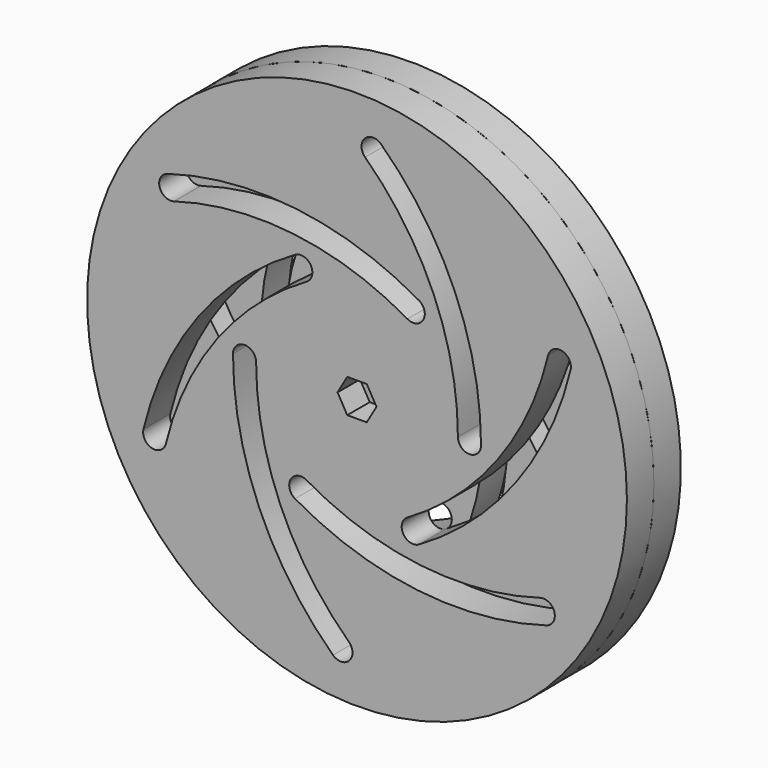
from build123d import *

# Parameters (mm, degrees)
F0_R     = 76.2
F0_R_2   = 9.8425
F0_R_3   = 9.525
F1_DEPTH = 9.525
F0_R_4   = 2.5146
F2_DEPTH = 1.5875
F3_DEPTH = 4.7625
F4_DEPTH = 9.525
F5_ANGLE = 180


with BuildPart() as f1:
    # F0 (on Front) → F1 (new body)
    with BuildSketch(Plane.XZ):
        Circle(F0_R)
        with BuildLine():
            ThreePointArc((-2.2891337662, -60.9701208178), (-2.1680320479, -65.5843835751), (-6.7822948052, -65.7054852935))
            ThreePointArc((-6.7822948052, -65.7054852935), (-27.6572431778, -35.756937542), (-35.0139, 0))
            ThreePointArc((-35.0139, 0), (-31.75, 3.2639), (-28.4861, 0))
            ThreePointArc((-28.4861, 0), (-21.6596340929, -33.1799512974), (-2.2891337662, -60.9701208178))
        make_face(mode=Mode.SUBTRACT)
        with BuildLine():
            ThreePointArc((-53.9462403831, -28.5026124147), (-57.8817582915, -30.9146209579), (-60.2937668348, -26.9791030495))
            ThreePointArc((-60.2937668348, -26.9791030495), (-44.7950378618, 6.0734064196), (-17.50695, 30.3229268856))
            ThreePointArc((-17.50695, 30.3229268856), (-13.0483796846, 29.1282565702), (-14.24305, 24.6696862547))
            ThreePointArc((-14.24305, 24.6696862547), (-39.5644977663, 2.1678177124), (-53.9462403831, -28.5026124147))
        make_face(mode=Mode.SUBTRACT)
        with BuildLine():
            ThreePointArc((51.6571066169, -32.4675084031), (55.7137262437, -34.6697626172), (53.5114720296, -38.726382244))
            ThreePointArc((53.5114720296, -38.726382244), (17.137794684, -41.8303439616), (-17.50695, -30.3229268856))
            ThreePointArc((-17.50695, -30.3229268856), (-18.7016203154, -25.8643565702), (-14.24305, -24.6696862547))
            ThreePointArc((-14.24305, -24.6696862547), (17.9048636734, -35.3477690098), (51.6571066169, -32.4675084031))
        make_face(mode=Mode.SUBTRACT)
        with BuildLine():
            ThreePointArc((-51.6571066169, 32.4675084031), (-55.7137262437, 34.6697626172), (-53.5114720296, 38.726382244))
            ThreePointArc((-53.5114720296, 38.726382244), (-17.137794684, 41.8303439616), (17.50695, 30.3229268856))
            ThreePointArc((17.50695, 30.3229268856), (18.7016203154, 25.8643565702), (14.24305, 24.6696862547))
            ThreePointArc((14.24305, 24.6696862547), (-17.9048636734, 35.3477690098), (-51.6571066169, 32.4675084031))
        make_face(mode=Mode.SUBTRACT)
        Circle(F0_R_2, mode=Mode.SUBTRACT)
        with BuildLine():
            ThreePointArc((14.24305, -24.6696862547), (39.5644977663, -2.1678177124), (53.9462403831, 28.5026124147))
            ThreePointArc((53.9462403831, 28.5026124147), (57.8817582915, 30.9146209579), (60.2937668348, 26.9791030495))
            ThreePointArc((60.2937668348, 26.9791030495), (44.7950378618, -6.0734064196), (17.50695, -30.3229268856))
            ThreePointArc((17.50695, -30.3229268856), (13.0483796846, -29.1282565702), (14.24305, -24.6696862547))
        make_face(mode=Mode.SUBTRACT)
        with BuildLine():
            ThreePointArc((2.2891337662, 60.9701208178), (2.1680320479, 65.5843835751), (6.7822948052, 65.7054852935))
            ThreePointArc((6.7822948052, 65.7054852935), (27.6572431778, 35.756937542), (35.0139, 0))
            ThreePointArc((35.0139, 0), (31.75, -3.2639), (28.4861, 0))
            ThreePointArc((28.4861, 0), (21.6596340929, 33.1799512974), (2.2891337662, 60.9701208178))
        make_face(mode=Mode.SUBTRACT)
        Circle(F0_R_2)
        Circle(F0_R_3, mode=Mode.SUBTRACT)
        Circle(F0_R_3)
        Polygon((-2.749630657, 4.7625), (2.749630657, 4.7625), (5.499261314, 0), (2.749630657, -4.7625), (-2.749630657, -4.7625), (-5.499261314, 0), align=None, mode=Mode.SUBTRACT)
    extrude(amount=F1_DEPTH)

    # F0 (on Front) → F2 (join)
    with BuildSketch(Plane.XZ):
        Polygon((5.499261314, 0), (2.749630657, 4.7625), (-2.749630657, 4.7625), (-5.499261314, 0), (-2.749630657, -4.7625), (2.749630657, -4.7625), align=None)
        Circle(F0_R_4, mode=Mode.SUBTRACT)
    extrude(amount=F2_DEPTH)

    # F0 (on Front) → F3 (join)
    with BuildSketch(Plane.XZ):
        Circle(F0_R_3)
        Polygon((-2.749630657, 4.7625), (2.749630657, 4.7625), (5.499261314, 0), (2.749630657, -4.7625), (-2.749630657, -4.7625), (-5.499261314, 0), align=None, mode=Mode.SUBTRACT)
        Polygon((5.499261314, 0), (2.749630657, 4.7625), (-2.749630657, 4.7625), (-5.499261314, 0), (-2.749630657, -4.7625), (2.749630657, -4.7625), align=None)
        Circle(F0_R_4, mode=Mode.SUBTRACT)
    extrude(amount=-F3_DEPTH)


with BuildPart() as f4:
    # F0 (on Front) → F4 (new body, through all)
    with BuildSketch(Plane.XZ):
        Circle(F0_R)
        with BuildLine():
            ThreePointArc((-2.2891337662, -60.9701208178), (-2.1680320479, -65.5843835751), (-6.7822948052, -65.7054852935))
            ThreePointArc((-6.7822948052, -65.7054852935), (-27.6572431778, -35.756937542), (-35.0139, 0))
            ThreePointArc((-35.0139, 0), (-31.75, 3.2639), (-28.4861, 0))
            ThreePointArc((-28.4861, 0), (-21.6596340929, -33.1799512974), (-2.2891337662, -60.9701208178))
        make_face(mode=Mode.SUBTRACT)
        with BuildLine():
            ThreePointArc((-53.9462403831, -28.5026124147), (-57.8817582915, -30.9146209579), (-60.2937668348, -26.9791030495))
            ThreePointArc((-60.2937668348, -26.9791030495), (-44.7950378618, 6.0734064196), (-17.50695, 30.3229268856))
            ThreePointArc((-17.50695, 30.3229268856), (-13.0483796846, 29.1282565702), (-14.24305, 24.6696862547))
            ThreePointArc((-14.24305, 24.6696862547), (-39.5644977663, 2.1678177124), (-53.9462403831, -28.5026124147))
        make_face(mode=Mode.SUBTRACT)
        with BuildLine():
            ThreePointArc((51.6571066169, -32.4675084031), (55.7137262437, -34.6697626172), (53.5114720296, -38.726382244))
            ThreePointArc((53.5114720296, -38.726382244), (17.137794684, -41.8303439616), (-17.50695, -30.3229268856))
            ThreePointArc((-17.50695, -30.3229268856), (-18.7016203154, -25.8643565702), (-14.24305, -24.6696862547))
            ThreePointArc((-14.24305, -24.6696862547), (17.9048636734, -35.3477690098), (51.6571066169, -32.4675084031))
        make_face(mode=Mode.SUBTRACT)
        with BuildLine():
            ThreePointArc((-51.6571066169, 32.4675084031), (-55.7137262437, 34.6697626172), (-53.5114720296, 38.726382244))
            ThreePointArc((-53.5114720296, 38.726382244), (-17.137794684, 41.8303439616), (17.50695, 30.3229268856))
            ThreePointArc((17.50695, 30.3229268856), (18.7016203154, 25.8643565702), (14.24305, 24.6696862547))
            ThreePointArc((14.24305, 24.6696862547), (-17.9048636734, 35.3477690098), (-51.6571066169, 32.4675084031))
        make_face(mode=Mode.SUBTRACT)
        Circle(F0_R_2, mode=Mode.SUBTRACT)
        with BuildLine():
            ThreePointArc((14.24305, -24.6696862547), (39.5644977663, -2.1678177124), (53.9462403831, 28.5026124147))
            ThreePointArc((53.9462403831, 28.5026124147), (57.8817582915, 30.9146209579), (60.2937668348, 26.9791030495))
            ThreePointArc((60.2937668348, 26.9791030495), (44.7950378618, -6.0734064196), (17.50695, -30.3229268856))
            ThreePointArc((17.50695, -30.3229268856), (13.0483796846, -29.1282565702), (14.24305, -24.6696862547))
        make_face(mode=Mode.SUBTRACT)
        with BuildLine():
            ThreePointArc((2.2891337662, 60.9701208178), (2.1680320479, 65.5843835751), (6.7822948052, 65.7054852935))
            ThreePointArc((6.7822948052, 65.7054852935), (27.6572431778, 35.756937542), (35.0139, 0))
            ThreePointArc((35.0139, 0), (31.75, -3.2639), (28.4861, 0))
            ThreePointArc((28.4861, 0), (21.6596340929, 33.1799512974), (2.2891337662, 60.9701208178))
        make_face(mode=Mode.SUBTRACT)
    extrude(amount=F4_DEPTH)


with BuildPart() as f4_1:
    # F5: moved
    add(f4.part.rotate(Axis((0, 0, 38.1), (0, 0, 1)), F5_ANGLE))


solid = Compound([f1.part, f4_1.part])
